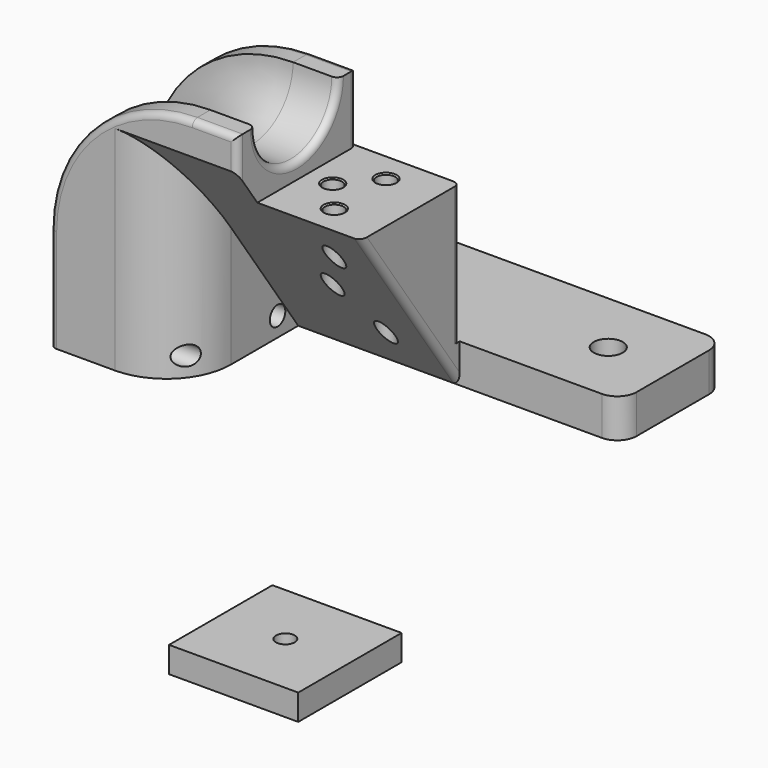
from build123d import *

# Parameters (mm, degrees)
PAD_DEPTH       = 6
SKETCH001_W     = 23
SKETCH001_H     = 37.99
PAD001_DEPTH    = 45
POCKET_DEPTH    = 25
FILLET_R        = 10
POCKET001_DEPTH = 43.001
SKETCH007_W     = 23
SKETCH007_H     = 10.5
POCKET002_DEPTH = 16
FILLET001_R     = 1
SKETCH009_R     = 2.25
POCKET004_DEPTH = 6.0010001
SKETCH010_R     = 1.5
POCKET005_DEPTH = 20.0010001
SKETCH008_R     = 1.45
POCKET006_DEPTH = 27.4910001
FILLET002_R     = 1
CHAMFER_SIZE    = 0.2
SKETCH011_W     = 20
SKETCH011_H     = 20
SKETCH011_R     = 1.45
PAD002_DEPTH    = 4


with BuildPart() as bodyreceiver:
    # Sketch → Pad (new body)
    with BuildSketch(Plane.XY):
        with BuildLine():
            Line((0, 0), (67, 0))
            ThreePointArc((67, 0), (69.1213203436, 0.8786796564), (70, 3))
            Line((70, 3), (70, 17))
            ThreePointArc((70, 17), (69.1213203436, 19.1213203436), (67, 20))
            Line((67, 20), (3, 20))
            ThreePointArc((3, 20), (0.8786796564, 19.1213203436), (0, 17))
            Line((0, 17), (0, 0))
        make_face()
    extrude(amount=PAD_DEPTH)

    # Sketch001 (on Face7 of Pad) → Pad001 (join)
    with BuildSketch(Plane(origin=(0, 0, 0), x_dir=(0, -1, 0), z_dir=(-1, 0, 0))):
        with Locations((11.5, 18.995)):
            Rectangle(SKETCH001_W, SKETCH001_H)
    extrude(amount=-PAD001_DEPTH)

    # Sketch002 (on Face4 of Pad001) → Pocket (cut)
    with BuildSketch(Plane.YZ.offset(45)):
        Polygon((-23, 0), (-23, 32.99), (0, 0), align=None)
    extrude(amount=-POCKET_DEPTH, mode=Mode.SUBTRACT)

    # Fillet
    fillet_edges = [bodyreceiver.edges().sort_by_distance(p)[0] for p in [
        (20, -23, 16.495),
    ]]
    fillet(fillet_edges, radius=FILLET_R)

    # SubtractivePipe: sweep along a path in Sketch003
    with BuildLine(Plane.XZ.offset(23)) as subtractivepipe_path:
        Line((45, 33.99), (22, 33.99))
        ThreePointArc((22, 33.99), (9.2720779386, 28.7179220613), (4, 15.99))
        Line((4, 15.99), (4, 0))
    # Sketch005 (on Face14 of Fillet) → SubtractivePipe (sweep, cut)
    with BuildSketch(Plane.YZ.offset(45)):
        with BuildLine():
            ThreePointArc((-19.5, 37.99), (-11.5, 29.99), (-3.5, 37.99))
            Line((-19.5, 37.99), (-3.5, 37.99))
        make_face()
    sweep(path=subtractivepipe_path.line, mode=Mode.SUBTRACT)

    # Sketch006 (on Face13 of SubtractivePipe) → Pocket001 (cut, through all)
    with BuildSketch(Plane.XZ.offset(23)):
        with BuildLine():
            Line((-5, 15.99), (-5, 42.99))
            Line((-5, 42.99), (22, 42.99))
            Line((22, 42.99), (22, 37.99))
            ThreePointArc((22, 37.99), (6.4436508139, 31.5463491861), (0, 15.99))
            Line((-5, 15.99), (0, 15.99))
        make_face()
    extrude(amount=-POCKET001_DEPTH, mode=Mode.SUBTRACT)

    # Sketch007 (on Face15 of Pocket001) → Pocket002 (cut)
    with BuildSketch(Plane.YZ.offset(45)):
        with Locations((-11.5, 32.74)):
            Rectangle(SKETCH007_W, SKETCH007_H)
    extrude(amount=-POCKET002_DEPTH, mode=Mode.SUBTRACT)

    # Fillet001
    fillet001_edges = [bodyreceiver.edges().sort_by_distance(p)[0] for p in [
        (29, -11.5, 29.99),
        (8, -11.5, 0),
    ]]
    fillet(fillet001_edges, radius=FILLET001_R)

    # Sketch009 → Pocket004 (cut, through all)
    with BuildSketch(Plane.XY.offset(6)):
        with Locations((60, 10)):
            Circle(SKETCH009_R)
    extrude(amount=-POCKET004_DEPTH, mode=Mode.SUBTRACT)

    # Sketch010 (on Face11 of Pocket004) → Pocket005 (cut, through all)
    with BuildSketch(Plane.YZ.offset(20)):
        with Locations((-4, 3)):
            Circle(SKETCH010_R)
        with Locations((-19, 3)):
            Circle(SKETCH010_R)
    extrude(amount=-POCKET005_DEPTH, mode=Mode.SUBTRACT)

    # Sketch008 (on Face22 of Fillet001) → Pocket006 (cut, through all)
    with BuildSketch(Plane.XY.offset(27.49)):
        with Locations((37.25, -4.5827523492)):
            Circle(SKETCH008_R)
        with Locations((37.25, -14.5827523492)):
            Circle(SKETCH008_R)
        with Locations((33, -9.5827523492)):
            Circle(SKETCH008_R)
    extrude(amount=-POCKET006_DEPTH, mode=Mode.SUBTRACT)

    # Fillet002
    fillet002_edges = [bodyreceiver.edges().sort_by_distance(p)[0] for p in [
        (29, -23, 35.49),
        (25.5, -23, 37.99),
        (0, -23, 7.995),
        (0, 0, 10.995),
        (6.443651, 0, 31.546349),
        (25.5, 0, 37.99),
        (29, 0, 32.74),
        (45, 0, 16.745),
        (45, -9.582752, 13.745),
    ]]
    fillet(fillet002_edges, radius=FILLET002_R)

    # Chamfer
    chamfer_edges = [bodyreceiver.edges().sort_by_distance(p)[0] for p in [
        (35.8, -14.582752, 27.49),
        (31.55, -9.582752, 27.49),
        (35.8, -4.582752, 27.49),
    ]]
    chamfer(chamfer_edges, length=CHAMFER_SIZE)


with BuildPart() as bodytest:
    # Sketch011 → Pad002 (new body)
    with BuildSketch(Plane.XY):
        with Locations((10, 10)):
            Rectangle(SKETCH011_W, SKETCH011_H)
        with Locations((10, 10)):
            Circle(SKETCH011_R, mode=Mode.SUBTRACT)
    extrude(amount=PAD002_DEPTH)


with BuildPart() as bodytest_1:
    # Body001 placement: moved
    add(bodytest.part.moved(Location((0, 0, -54))))


solid = Compound([bodyreceiver.part, bodytest_1.part])
